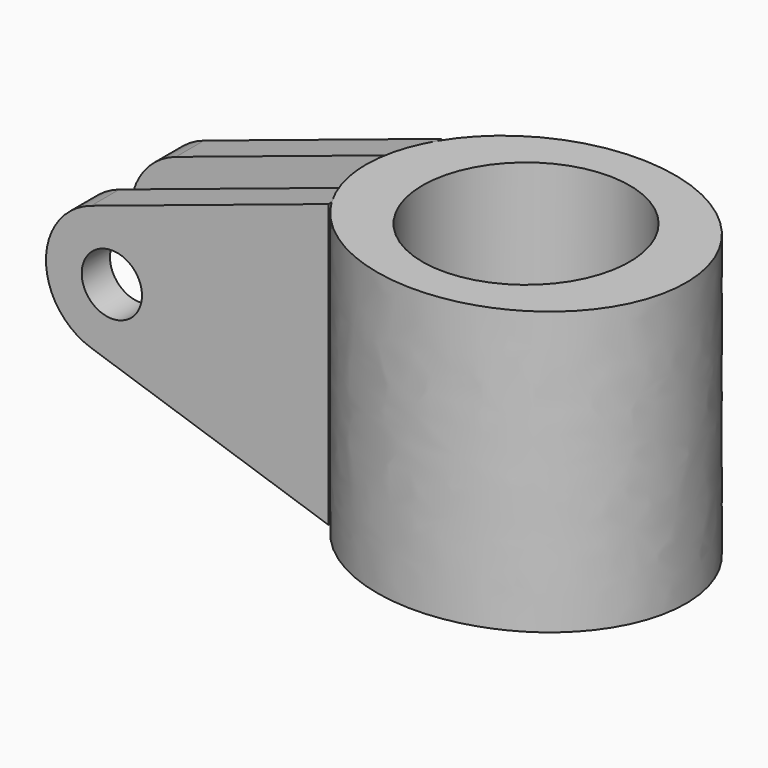
from build123d import *

# Parameters (mm, degrees)
RECTANGLE001_W             = 30
RECTANGLE001_H             = 7.5
EXTRUDE003_DEPTH           = 30
SKETCH_R                   = 3.2
EXTRUDE002_DEPTH           = 15
CIRCLE_R                   = 11
EXTRUDE001_DEPTH           = 30
EXTRUDE001_PLACEMENT_ANGLE = 180
EXTRUDE_DEPTH              = 30
EXTRUDE_PLACEMENT_ANGLE    = 180


with BuildPart() as extrude003:
    # Rectangle001 → Extrude003 (new body)
    with BuildSketch(Plane(origin=(-30, -3.75, -15), x_dir=(1, 0, 0), z_dir=(0, 0, 1))):
        with Locations((15, 3.75)):
            Rectangle(RECTANGLE001_W, RECTANGLE001_H)
    extrude(amount=EXTRUDE003_DEPTH)


with BuildPart() as extrude003_1:
    # Extrude003 placement: moved
    add(extrude003.part.moved(Location((-15, 0, -15))))


with BuildPart() as cut:
    # Sketch → Extrude002 (new body)
    with BuildSketch(Plane(origin=(-15, 0, -30), x_dir=(1, 0, 0), z_dir=(0, -1, 0))):
        with BuildLine():
            Line((-25.202842, 21.644358), (0, 30))
            Line((0, 30), (0, 0))
            Line((-25.202842, 8.355642), (0, 0))
            ThreePointArc((-25.202842, 21.644358), (-30, 15), (-25.202842, 8.355642))
        make_face()
        with Locations((-23, 15)):
            Circle(SKETCH_R, mode=Mode.SUBTRACT)
    extrude(amount=-EXTRUDE002_DEPTH)


with BuildPart() as cut_1:
    # Extrude002 placement: moved
    add(cut.part.moved(Location((0, -7.5, 0))))

    # Cut: cut Extrude003
    add(extrude003_1.part, mode=Mode.SUBTRACT)


with BuildPart() as extrude001:
    # Circle → Extrude001 (new body)
    with BuildSketch(Plane.XY):
        Circle(CIRCLE_R)
    extrude(amount=EXTRUDE001_DEPTH)


with BuildPart() as extrude001_1:
    # Extrude001 placement: moved
    add(extrude001.part.rotate(Axis((0, 0, 0), (0, 1, 0)), EXTRUDE001_PLACEMENT_ANGLE))


with BuildPart() as body:
    # Ellipse → Extrude (new body)
    with BuildSketch(Plane.XY):
        with BuildLine():
            add(Edge.make_bspline(
                [(17, 0), (17, 25.980762), (-8.5, 12.990381), (-34, 0), (-8.5, -12.990381), (17, -25.980762), (17, 0)],
                knots=[0, 0, 0, 2.094395, 2.094395, 4.18879, 4.18879, 6.283185, 6.283185, 6.283185], degree=2, weights=[1, 0.5, 1, 0.5, 1, 0.5, 1]))
        make_face()
    extrude(amount=EXTRUDE_DEPTH)


with BuildPart() as body_1:
    # Extrude placement: moved
    add(body.part.rotate(Axis((0, 0, 0), (0, 1, 0)), EXTRUDE_PLACEMENT_ANGLE))

    # Cut001: cut Extrude001
    add(extrude001_1.part, mode=Mode.SUBTRACT)

    # Fusion: union Cut
    add(cut_1.part)


solid = body_1.part
